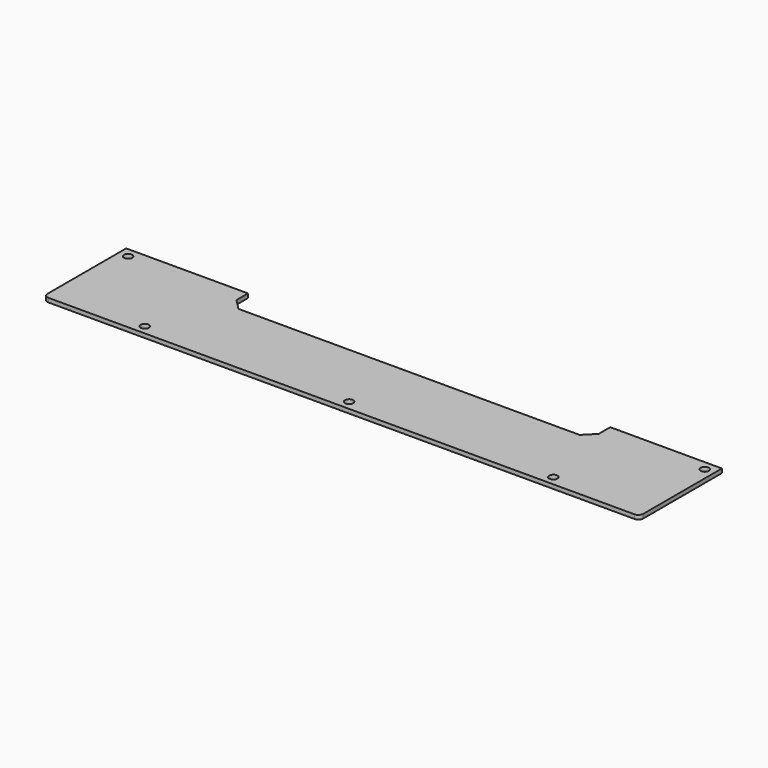
from build123d import *

# Parameters (mm, degrees)
F0_W     = 248.269176
F0_H     = 43.005985
F0_R     = 1.7272
F1_DEPTH = 1.70942
F2_R     = 1.98374
F3_W     = 150.955984
F3_H     = 10.467619
F4_DEPTH = 1.70942
F5_SIZE  = 4.415511


with BuildPart() as f1:
    # F0 (on Top) → F1 (new body)
    with BuildSketch(Plane.XY):
        with Locations((124.134588, -21.502992)):
            Rectangle(F0_W, F0_H)
        with Locations((39.037235, -39.037235)):
            Circle(F0_R, mode=Mode.SUBTRACT)
        with Locations((124.134588, -39.037235)):
            Circle(F0_R, mode=Mode.SUBTRACT)
        with Locations((209.231941, -39.037235)):
            Circle(F0_R, mode=Mode.SUBTRACT)
        with Locations((3.96875, -3.96875)):
            Circle(F0_R, mode=Mode.SUBTRACT)
        with Locations((244.300426, -3.96875)):
            Circle(F0_R, mode=Mode.SUBTRACT)
    extrude(amount=F1_DEPTH)

    # F2
    f2_edges = [f1.edges().sort_by_distance(p)[0] for p in [
        (0, -43.005985, 0.85471),
        (248.269176, -43.005985, 0.85471),
    ]]
    fillet(f2_edges, radius=F2_R)

    # F3 (on face) → F4 (cut, through all)
    with BuildSketch(Plane.XY.offset(1.70942)):
        with Locations((126.261038, -5.233809)):
            Rectangle(F3_W, F3_H)
    extrude(amount=-F4_DEPTH, mode=Mode.SUBTRACT)

    # F5
    f5_edges = [f1.edges().sort_by_distance(p)[0] for p in [
        (50.783046, -10.467619, 0.85471),
        (201.73903, -10.467619, 0.85471),
    ]]
    chamfer(f5_edges, length=F5_SIZE)


solid = f1.part
